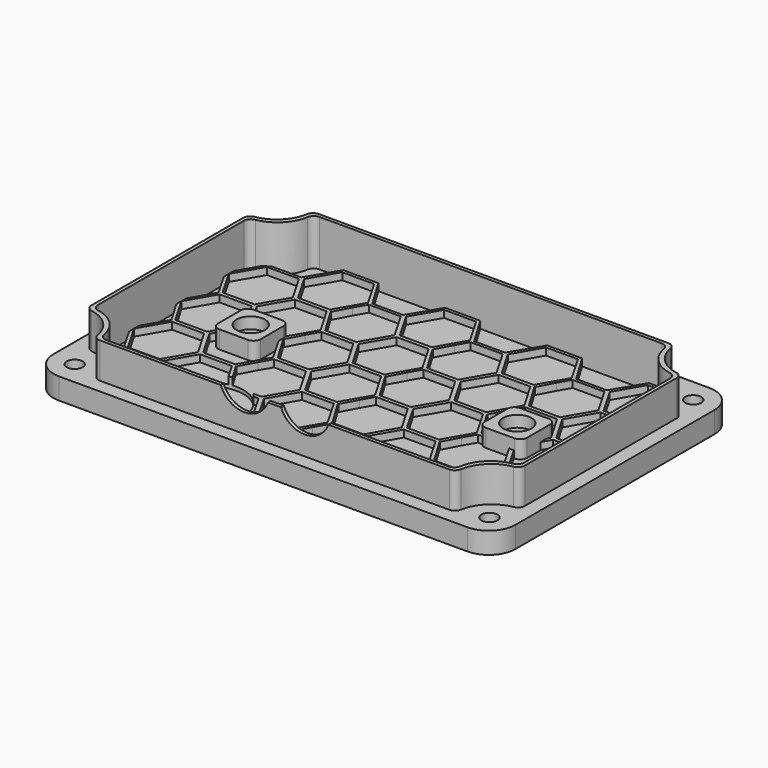
from build123d import *

# Parameters (mm, degrees)
PAD003_DEPTH              = 6
POCKET005_DEPTH           = 3
PAD004_DEPTH              = 10
PAD_DEPTH                 = 2
PAD_LINEARPATTERN_2_DEPTH = 2
PAD_LINEARPATTERN_3_DEPTH = 2
PAD_LINEARPATTERN_4_DEPTH = 2
LINEARPATTERN001_COUNT    = 4
LINEARPATTERN001_PITCH    = 16.666667
SKETCH014_R               = 6.05
HOLE001_DEPTH             = 25
PAD005_DEPTH              = 5
POCKET007_DEPTH           = 3
HOLE002_D                 = 4.5
HOLE002_DEPTH             = 8
HOLE002_CBORE_D           = 8
HOLE002_CBORE_DEPTH       = 3.2
HOLE002_TIPS_R            = 2.25
SKETCH_R                  = 10
POCKET_DEPTH              = 3
HOLE_D                    = 4.5
HOLE_DEPTH                = 25
HOLE_CBORE_D              = 8
HOLE_CBORE_DEPTH          = 3.2
SKETCH057_R               = 7.1
POCKET008_DEPTH           = 5


with BuildPart() as part:
    # Sketch011 (on ShapeBinder) → Pad003 (new body)
    with BuildSketch(Plane(origin=(0, 0, 0), x_dir=(1, 0, 0), z_dir=(0, 0, -1))):
        with BuildLine():
            Line((7.5, 0), (122.5, 0))
            ThreePointArc((130, -7.5), (127.803301, -2.196699), (122.5, 0))
            Line((130, -7.5), (130, -77.5))
            ThreePointArc((122.5, -85), (127.803301, -82.803301), (130, -77.5))
            Line((122.5, -85), (7.5, -85))
            ThreePointArc((0, -77.5), (2.196699, -82.803301), (7.5, -85))
            Line((0, -77.5), (0, -7.5))
            ThreePointArc((7.5, 0), (2.196699, -2.196699), (0, -7.5))
        make_face()
    extrude(amount=PAD003_DEPTH)

    # Sketch010 (on Face1 of ShapeBinder) → Pocket005 (cut)
    with BuildSketch(Plane(origin=(0, 0, 0), x_dir=(1, 0, 0), z_dir=(0, 0, -1))):
        with BuildLine():
            ThreePointArc((14.860133, -78.333333), (12.071068, -72.928932), (6.666667, -70.139867))
            ThreePointArc((5, -68.16784), (5.472475, -69.458835), (6.666667, -70.139867))
            Line((5, -16.83216), (5, -68.16784))
            ThreePointArc((6.666667, -14.860133), (5.472475, -15.541165), (5, -16.83216))
            ThreePointArc((6.666667, -14.860133), (12.071068, -12.071068), (14.860133, -6.666667))
            ThreePointArc((16.83216, -5), (15.541165, -5.472475), (14.860133, -6.666667))
            Line((113.16784, -5), (16.83216, -5))
            ThreePointArc((115.139867, -6.666667), (114.458835, -5.472475), (113.16784, -5))
            ThreePointArc((115.139867, -6.666667), (117.928932, -12.071068), (123.333333, -14.860133))
            ThreePointArc((125, -16.83216), (124.527525, -15.541165), (123.333333, -14.860133))
            Line((125, -68.16784), (125, -16.83216))
            ThreePointArc((123.333333, -70.139867), (124.527525, -69.458835), (125, -68.16784))
            ThreePointArc((123.333333, -70.139867), (117.928932, -72.928932), (115.139867, -78.333333))
            ThreePointArc((113.16784, -80), (114.458835, -79.527525), (115.139867, -78.333333))
            Line((16.83216, -80), (113.16784, -80))
            ThreePointArc((14.860133, -78.333333), (15.541165, -79.527525), (16.83216, -80))
        make_face()
    extrude(amount=POCKET005_DEPTH, mode=Mode.SUBTRACT)

    # Sketch013 (on Face1 of ShapeBinder) → Pad004 (join)
    with BuildSketch(Plane(origin=(0, 0, 0), x_dir=(1, 0, 0), z_dir=(0, 0, -1))):
        with BuildLine():
            ThreePointArc((13.860133, -79.333333), (11.071068, -73.928932), (5.666667, -71.139867))
            ThreePointArc((4, -69.16784), (4.472475, -70.458835), (5.666667, -71.139867))
            Line((4, -15.83216), (4, -69.16784))
            ThreePointArc((5.666667, -13.860133), (4.472475, -14.541165), (4, -15.83216))
            ThreePointArc((5.666667, -13.860133), (11.071068, -11.071068), (13.860133, -5.666667))
            ThreePointArc((15.83216, -4), (14.541165, -4.472475), (13.860133, -5.666667))
            Line((114.16784, -4), (15.83216, -4))
            ThreePointArc((116.139867, -5.666667), (115.458835, -4.472475), (114.16784, -4))
            ThreePointArc((116.139867, -5.666667), (118.928932, -11.071068), (124.333333, -13.860133))
            ThreePointArc((126, -15.83216), (125.527525, -14.541165), (124.333333, -13.860133))
            Line((126, -69.16784), (126, -15.83216))
            ThreePointArc((124.333333, -71.139867), (125.527525, -70.458835), (126, -69.16784))
            ThreePointArc((124.333333, -71.139867), (118.928932, -73.928932), (116.139867, -79.333333))
            ThreePointArc((114.16784, -81), (115.458835, -80.527525), (116.139867, -79.333333))
            Line((15.83216, -81), (114.16784, -81))
            ThreePointArc((13.860133, -79.333333), (14.541165, -80.527525), (15.83216, -81))
        make_face()
        with BuildLine():
            ThreePointArc((14.860133, -78.333333), (12.071068, -72.928932), (6.666667, -70.139867))
            ThreePointArc((5, -68.16784), (5.472475, -69.458835), (6.666667, -70.139867))
            Line((5, -16.83216), (5, -68.16784))
            ThreePointArc((6.666667, -14.860133), (5.472475, -15.541165), (5, -16.83216))
            ThreePointArc((6.666667, -14.860133), (12.071068, -12.071068), (14.860133, -6.666667))
            ThreePointArc((16.83216, -5), (15.541165, -5.472475), (14.860133, -6.666667))
            Line((113.16784, -5), (16.83216, -5))
            ThreePointArc((115.139867, -6.666667), (114.458835, -5.472475), (113.16784, -5))
            ThreePointArc((115.139867, -6.666667), (117.928932, -12.071068), (123.333333, -14.860133))
            ThreePointArc((125, -16.83216), (124.527525, -15.541165), (123.333333, -14.860133))
            Line((125, -68.16784), (125, -16.83216))
            ThreePointArc((123.333333, -70.139867), (124.527525, -69.458835), (125, -68.16784))
            ThreePointArc((123.333333, -70.139867), (117.928932, -72.928932), (115.139867, -78.333333))
            ThreePointArc((113.16784, -80), (114.458835, -79.527525), (115.139867, -78.333333))
            Line((16.83216, -80), (113.16784, -80))
            ThreePointArc((14.860133, -78.333333), (15.541165, -79.527525), (16.83216, -80))
        make_face(mode=Mode.SUBTRACT)
    extrude(amount=-PAD004_DEPTH)

    # Sketch056 (on Face27 of Pocket005) → Pad (join)
    with BuildSketch(Plane.XY.offset(-3)):
        Polygon((18.484886, 71.555635), (9, 71.555635), (4, 62.895381), (9, 54.235127), (19, 54.235127), (23.999938, 62.860274), (33.850199, 62.860274), (38.478193, 71.555635), (33.40667, 80), (23.556409, 80), align=None)
        Polygon((5, 62.895381), (9.5, 55.101153), (18.5, 55.101153), (23, 62.895381), (18.5, 70.68961), (9.5, 70.68961), align=None, mode=Mode.SUBTRACT)
        Polygon((19.48154, 71.296949), (23.98154, 63.502721), (32.98154, 63.502721), (37.48154, 71.296949), (32.98154, 79.091178), (23.98154, 79.091178), align=None, mode=Mode.SUBTRACT)
    pad = extrude(amount=PAD_DEPTH)

    # Sketch056 LinearPattern 2 → Pad LinearPattern 2 (add)
    with BuildSketch(Plane(origin=(28.666667, 0, -3), x_dir=(1, 0, 0), z_dir=(0, 0, 1))):
        Polygon((18.484886, 71.555635), (9, 71.555635), (4, 62.895381), (9, 54.235127), (19, 54.235127), (23.999938, 62.860274), (33.850199, 62.860274), (38.478193, 71.555635), (33.40667, 80), (23.556409, 80), align=None)
        Polygon((5, 62.895381), (9.5, 55.101153), (18.5, 55.101153), (23, 62.895381), (18.5, 70.68961), (9.5, 70.68961), align=None, mode=Mode.SUBTRACT)
        Polygon((19.48154, 71.296949), (23.98154, 63.502721), (32.98154, 63.502721), (37.48154, 71.296949), (32.98154, 79.091178), (23.98154, 79.091178), align=None, mode=Mode.SUBTRACT)
    pad_linearpattern_2 = extrude(amount=PAD_LINEARPATTERN_2_DEPTH)

    # Sketch056 LinearPattern 3 → Pad LinearPattern 3 (add)
    with BuildSketch(Plane(origin=(57.333333, 0, -3), x_dir=(1, 0, 0), z_dir=(0, 0, 1))):
        Polygon((18.484886, 71.555635), (9, 71.555635), (4, 62.895381), (9, 54.235127), (19, 54.235127), (23.999938, 62.860274), (33.850199, 62.860274), (38.478193, 71.555635), (33.40667, 80), (23.556409, 80), align=None)
        Polygon((5, 62.895381), (9.5, 55.101153), (18.5, 55.101153), (23, 62.895381), (18.5, 70.68961), (9.5, 70.68961), align=None, mode=Mode.SUBTRACT)
        Polygon((19.48154, 71.296949), (23.98154, 63.502721), (32.98154, 63.502721), (37.48154, 71.296949), (32.98154, 79.091178), (23.98154, 79.091178), align=None, mode=Mode.SUBTRACT)
    pad_linearpattern_3 = extrude(amount=PAD_LINEARPATTERN_3_DEPTH)

    # Sketch056 LinearPattern 4 → Pad LinearPattern 4 (add)
    with BuildSketch(Plane(origin=(86, 0, -3), x_dir=(1, 0, 0), z_dir=(0, 0, 1))):
        Polygon((18.484886, 71.555635), (9, 71.555635), (4, 62.895381), (9, 54.235127), (19, 54.235127), (23.999938, 62.860274), (33.850199, 62.860274), (38.478193, 71.555635), (33.40667, 80), (23.556409, 80), align=None)
        Polygon((5, 62.895381), (9.5, 55.101153), (18.5, 55.101153), (23, 62.895381), (18.5, 70.68961), (9.5, 70.68961), align=None, mode=Mode.SUBTRACT)
        Polygon((19.48154, 71.296949), (23.98154, 63.502721), (32.98154, 63.502721), (37.48154, 71.296949), (32.98154, 79.091178), (23.98154, 79.091178), align=None, mode=Mode.SUBTRACT)
    pad_linearpattern_4 = extrude(amount=PAD_LINEARPATTERN_4_DEPTH)

    # LinearPattern001: Pad, Pad LinearPattern 2, Pad LinearPattern 3, Pad LinearPattern 4 ×4
    with Locations(*[(0, -i * LINEARPATTERN001_PITCH, 0) for i in range(1, LINEARPATTERN001_COUNT)]):
        add(pad)
        add(pad_linearpattern_2)
        add(pad_linearpattern_3)
        add(pad_linearpattern_4)

    # Sketch014 (on Face108 of MultiTransform) → Hole001 (cut)
    with BuildSketch(Plane.XY.offset(-1)):
        with Locations((37.5, 15)):
            Circle(SKETCH014_R)
    extrude(amount=-HOLE001_DEPTH, mode=Mode.SUBTRACT)

    # Sketch015 (on Face27 of Pocket005) → Pad005 (join)
    with BuildSketch(Plane.XY.offset(-3)):
        with BuildLine():
            ThreePointArc((23.5, 48.5), (22.085786, 47.914214), (21.5, 46.5))
            Line((21.5, 38.5), (21.5, 46.5))
            ThreePointArc((21.5, 38.5), (22.085786, 37.085786), (23.5, 36.5))
            Line((31.5, 36.5), (23.5, 36.5))
            ThreePointArc((31.5, 36.5), (32.914214, 37.085786), (33.5, 38.5))
            Line((33.5, 46.5), (33.5, 38.5))
            ThreePointArc((33.5, 46.5), (32.914214, 47.914214), (31.5, 48.5))
            Line((23.5, 48.5), (31.5, 48.5))
        make_face()
        with BuildLine():
            ThreePointArc((98.5, 48.5), (97.085786, 47.914214), (96.5, 46.5))
            Line((96.5, 38.5), (96.5, 46.5))
            ThreePointArc((96.5, 38.5), (97.085786, 37.085786), (98.5, 36.5))
            Line((106.5, 36.5), (98.5, 36.5))
            ThreePointArc((106.5, 36.5), (107.914214, 37.085786), (108.5, 38.5))
            Line((108.5, 46.5), (108.5, 38.5))
            ThreePointArc((108.5, 46.5), (107.914214, 47.914214), (106.5, 48.5))
            Line((98.5, 48.5), (106.5, 48.5))
        make_face()
    extrude(amount=PAD005_DEPTH)

    # Sketch017 (on Face10 of Pad005) → Pocket007 (cut)
    with BuildSketch(Plane(origin=(0, 0, -6), x_dir=(1, 0, 0), z_dir=(0, 0, -1))):
        with BuildLine():
            ThreePointArc((24.5, -37.5), (23.085786, -38.085786), (22.5, -39.5))
            Line((22.5, -45.5), (22.5, -39.5))
            ThreePointArc((22.5, -45.5), (23.085786, -46.914214), (24.5, -47.5))
            Line((30.5, -47.5), (24.5, -47.5))
            ThreePointArc((30.5, -47.5), (31.914214, -46.914214), (32.5, -45.5))
            Line((32.5, -39.5), (32.5, -45.5))
            ThreePointArc((32.5, -39.5), (31.914214, -38.085786), (30.5, -37.5))
            Line((24.5, -37.5), (30.5, -37.5))
        make_face()
        with BuildLine():
            ThreePointArc((99.5, -37.5), (98.085786, -38.085786), (97.5, -39.5))
            Line((97.5, -45.5), (97.5, -39.5))
            ThreePointArc((97.5, -45.5), (98.085786, -46.914214), (99.5, -47.5))
            Line((105.5, -47.5), (99.5, -47.5))
            ThreePointArc((105.5, -47.5), (106.914214, -46.914214), (107.5, -45.5))
            Line((107.5, -39.5), (107.5, -45.5))
            ThreePointArc((107.5, -39.5), (106.914214, -38.085786), (105.5, -37.5))
            Line((99.5, -37.5), (105.5, -37.5))
        make_face()
    extrude(amount=-POCKET007_DEPTH, mode=Mode.SUBTRACT)

    # Hole002
    with Locations(Plane.XY.offset(2)):
        with Locations((102.5, 42.5), (27.5, 42.5)):
            CounterBoreHole(HOLE002_D / 2, HOLE002_CBORE_D / 2, HOLE002_CBORE_DEPTH, depth=HOLE002_DEPTH)

    # Hole002 tips → Hole002 tip 1 section 0
    with BuildSketch(Plane.XY.offset(-6), mode=Mode.PRIVATE) as hole002_tip_1_s0:
        with Locations((102.5, 42.5)):
            Circle(HOLE002_TIPS_R)
    loft([hole002_tip_1_s0.sketch, Vertex(102.5, 42.5, -7.351936)], mode=Mode.SUBTRACT)

    # Hole002 tips → Hole002 tip 2 section 0
    with BuildSketch(Plane.XY.offset(-6), mode=Mode.PRIVATE) as hole002_tip_2_s0:
        with Locations((27.5, 42.5)):
            Circle(HOLE002_TIPS_R)
    loft([hole002_tip_2_s0.sketch, Vertex(27.5, 42.5, -7.351936)], mode=Mode.SUBTRACT)

    # Sketch (on Face4 of Hole002) → Pocket (cut)
    with BuildSketch(Plane.XY.offset(-1)):
        with Locations((37.5, 15)):
            Circle(SKETCH_R)
    extrude(amount=-POCKET_DEPTH, mode=Mode.SUBTRACT)

    # Hole
    with Locations(Plane(origin=(0, 0, -6), x_dir=(1, 0, 0), z_dir=(0, 0, -1))):
        with Locations((6.651462, -6.651482), (123.348538, -6.651482), (123.348538, -78.348518), (6.651462, -78.348518)):
            CounterBoreHole(HOLE_D / 2, HOLE_CBORE_D / 2, HOLE_CBORE_DEPTH, depth=HOLE_DEPTH)

    # Sketch057 (on Face336 of Hole) → Pocket008 (cut)
    with BuildSketch(Plane.XZ.offset(-4)):
        with Locations((56.5, 12.5)):
            Circle(SKETCH057_R)
        with Locations((73.5, 12.5)):
            Circle(SKETCH057_R)
    extrude(amount=-POCKET008_DEPTH, mode=Mode.SUBTRACT)


solid = part.part
